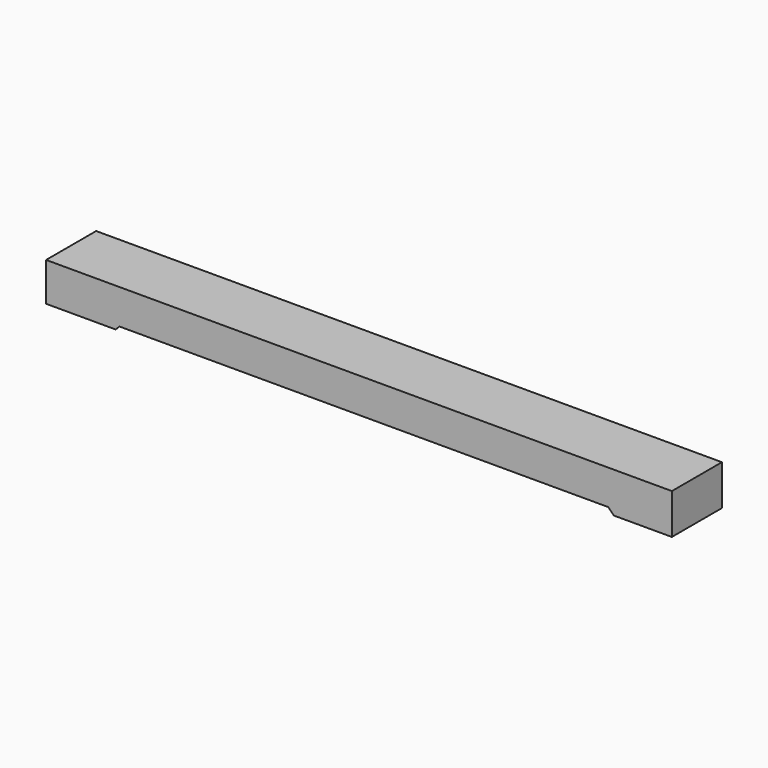
from build123d import *

# Parameters (mm, degrees)
EXTRUDE033_DEPTH = 402
EXTRUDE012_DEPTH = 405


with BuildPart() as extrude033:
    # Sketch034 → Extrude033 (new body, symmetric)
    with BuildSketch(Plane.XZ):
        Polygon((-597, -89), (-597, 411), (7497, 411), (7497, -112), (6747, -112), (6674, -39), (350, -39), (300, -89), align=None)
    extrude(amount=EXTRUDE033_DEPTH, both=True)


with BuildPart() as extrude033_1:
    # Extrude033 placement: moved
    add(extrude033.part.moved(Location((0, 0, -3))))


with BuildPart() as cut003:
    # Sketch020 → Extrude012 (new body, symmetric)
    with BuildSketch(Plane.XZ):
        Polygon((-600, -89), (-600, 411), (7500, 411), (7500, -112), (6750, -112), (6677, -39), (350, -39), (300, -89), align=None)
    extrude(amount=EXTRUDE012_DEPTH, both=True)

    # Cut003: cut Extrude033
    add(extrude033_1.part, mode=Mode.SUBTRACT)


solid = cut003.part
